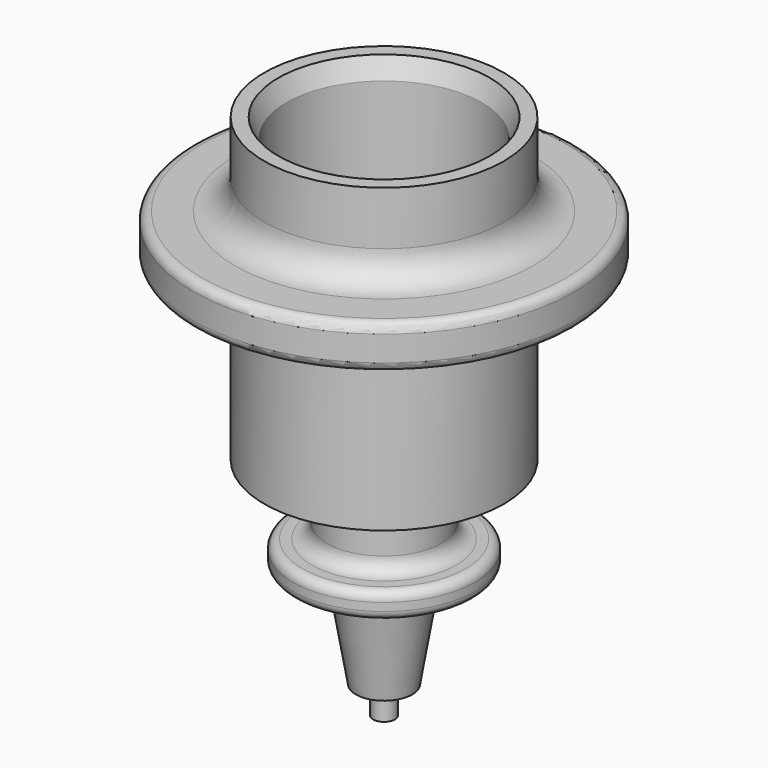
from build123d import *

# Parameters (mm, degrees)
F2_R = 0.25
F3_R = 0.8
F4_R = 0.4


with BuildPart() as f1:
    # F0 (on Front) → F1 (revolve)
    with BuildSketch(Plane.XZ):
        Polygon((0.128269, 1.103243), (0.125, 0), (0.3, 0), (0.3, 0.76), (0.775, 0.76), (1.25, 3.57), (2.5, 3.57), (2.5, 4.29), (1.585, 4.29), (1.585, 5.66), (2.021291, 5.66), (3.3, 6.2), (3.3, 11.03), (5.255, 11.03), (5.255, 12.23), (3.3, 12.23), (3.3, 14.51), (2.913161, 14.51), (2.69, 13.984587), (2.69, 6.538758), (1.062589, 5.988604), (0.336387, 1.103243), align=None)
    revolve(axis=Axis((0, 0, 0.617946), (0, 0, 1)))

    # F2
    f2_edges = [f1.edges().sort_by_distance(p)[0] for p in [
        (-5.255, 0, 12.23),
        (-5.255, 0, 11.03),
        (-2.5, 0, 4.29),
        (-2.5, 0, 3.57),
    ]]
    fillet(f2_edges, radius=F2_R)

    # F3
    f3_edges = [f1.edges().sort_by_distance(p)[0] for p in [
        (-3.3, 0, 12.23),
        (-3.3, 0, 11.03),
    ]]
    fillet(f3_edges, radius=F3_R)

    # F4
    f4_edges = [f1.edges().sort_by_distance(p)[0] for p in [
        (-1.585, 0, 4.29),
        (-1.25, 0, 3.57),
    ]]
    fillet(f4_edges, radius=F4_R)


solid = f1.part
